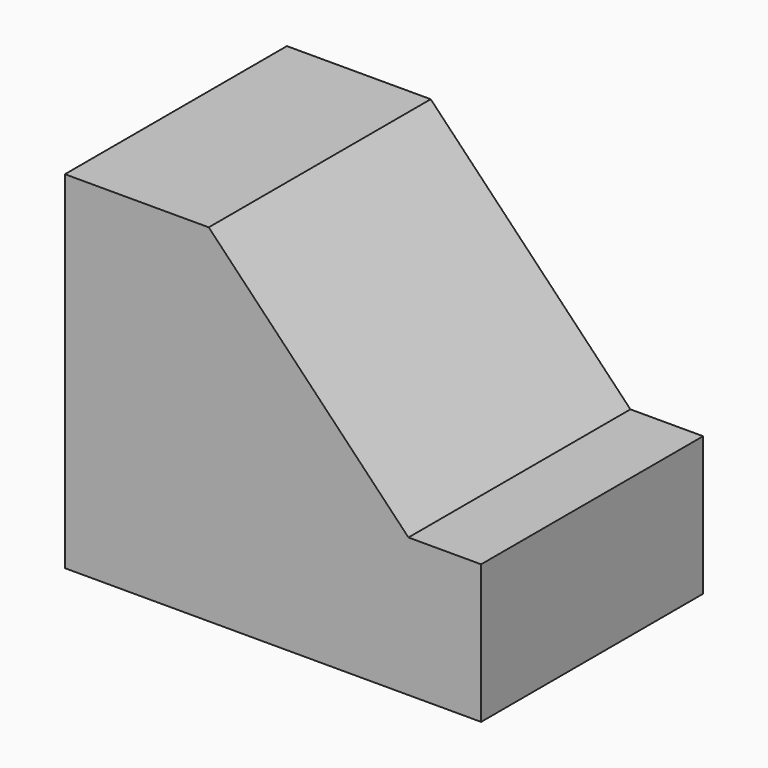
from build123d import *

# Parameters (mm, degrees)
F0_W     = 38.1
F0_H     = 31.75
F1_DEPTH = 25.4
F3_DEPTH = 25.401


with BuildPart() as f1:
    # F0 (on Front) → F1 (new body)
    with BuildSketch(Plane.XZ):
        with Locations((19.05, 15.875)):
            Rectangle(F0_W, F0_H)
    extrude(amount=F1_DEPTH)

    # F2 (on face) → F3 (cut, through all)
    with BuildSketch(Plane(origin=(0, 0, 0), x_dir=(-1, 0, 0), z_dir=(0, 1, 0))):
        Polygon((-31.446934, 12.701703), (-13.167475, 31.75), (-38.1, 31.75), (-38.1, 12.701703), align=None)
    extrude(amount=-F3_DEPTH, mode=Mode.SUBTRACT)


solid = f1.part
